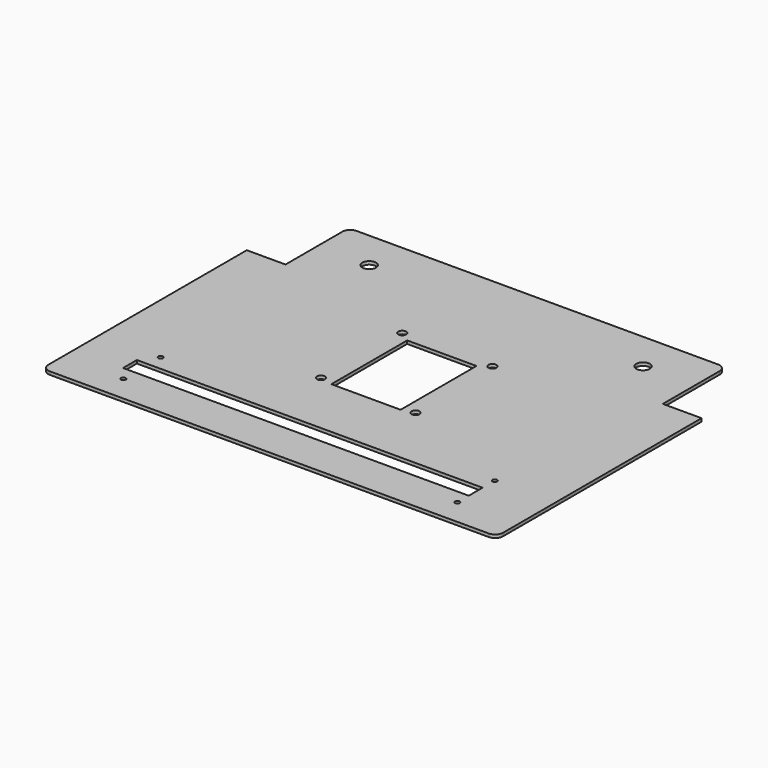
from build123d import *

# Parameters (mm, degrees)
F0_R     = 1.524
F0_W     = 222.25
F0_H     = 11.1252
F0_R_2   = 2.5654
F0_R_3   = 4.3815
F0_W_2   = 44.5262
F0_H_2   = 60.96
F1_DEPTH = 2.032
F2_R     = 5.08


with BuildPart() as f1:
    # F0 (on Top) → F1 (new body)
    with BuildSketch(Plane.XY):
        Polygon((-146.177, 82.296), (-146.177, -82.296), (146.177, -82.296), (146.177, 82.296), (121.285, 82.296), (121.285, 133.096), (-121.285, 133.096), (-121.285, 82.296), align=None)
        with Locations((-107.188, -65.6336)):
            Circle(F0_R, mode=Mode.SUBTRACT)
        with Locations((-107.188, -35.6616)):
            Circle(F0_R, mode=Mode.SUBTRACT)
        with Locations((-3.556, -50.9524)):
            Rectangle(F0_W, F0_H, mode=Mode.SUBTRACT)
        with Locations((-30.4038, -2.7686)):
            Circle(F0_R_2, mode=Mode.SUBTRACT)
        with Locations((107.569, -65.6336)):
            Circle(F0_R, mode=Mode.SUBTRACT)
        with Locations((107.569, -35.5854)):
            Circle(F0_R, mode=Mode.SUBTRACT)
        with Locations((30.4038, -2.7686)):
            Circle(F0_R_2, mode=Mode.SUBTRACT)
        with Locations((-28.998554, 60.7314)):
            Circle(F0_R_2, mode=Mode.SUBTRACT)
        with Locations((-88.03132, 107.9881)):
            Circle(F0_R_3, mode=Mode.SUBTRACT)
        with Locations((0.2159, 25.5524)):
            Rectangle(F0_W_2, F0_H_2, mode=Mode.SUBTRACT)
        with Locations((28.998554, 60.7314)):
            Circle(F0_R_2, mode=Mode.SUBTRACT)
        with Locations((88.03132, 107.9881)):
            Circle(F0_R_3, mode=Mode.SUBTRACT)
    extrude(amount=F1_DEPTH)

    # F2
    f2_edges = [f1.edges().sort_by_distance(p)[0] for p in [
        (121.285, 133.096, 1.016),
        (-121.285, 133.096, 1.016),
        (146.177, -82.296, 1.016),
        (-146.177, -82.296, 1.016),
    ]]
    fillet(f2_edges, radius=F2_R)


solid = f1.part
